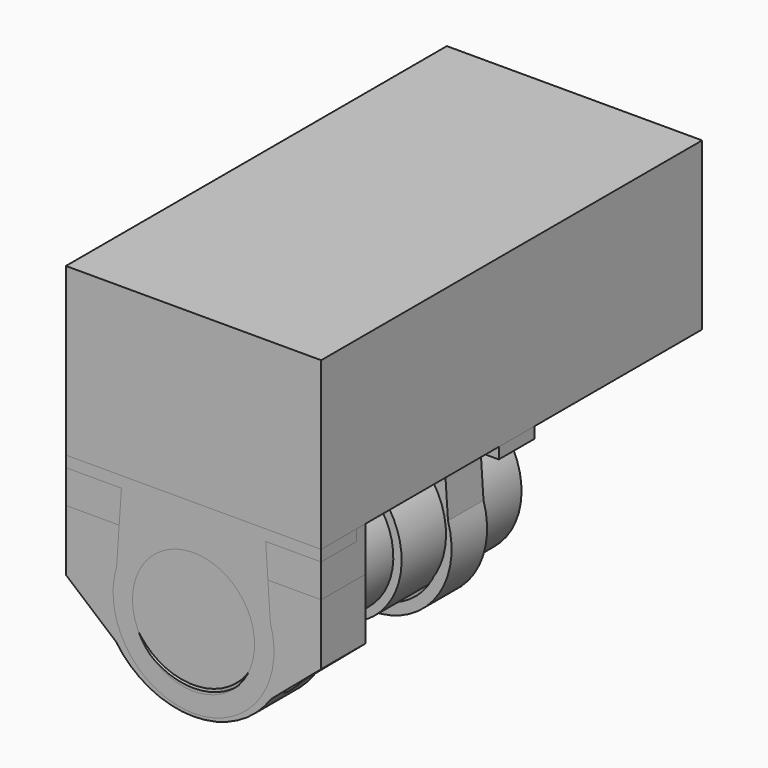
from build123d import *

# Parameters (mm, degrees)
CYLINDER_R        = 12
CYLINDER_DEPTH    = 30
CYLINDER001_R     = 13.5
CYLINDER001_DEPTH = 27
PAD_DEPTH         = 10
SKETCH001_R       = 2.3
POCKET_DEPTH      = 8.201
BOX001_W          = 46
BOX001_H          = 85.8
BOX001_DEPTH      = 30
PAD001_DEPTH      = 10
SKETCH004_R       = 2.3
POCKET001_DEPTH   = 34.001
SKETCH005_R       = 4.2
POCKET002_DEPTH   = 15.001
SKETCH006_R       = 11
PAD002_DEPTH      = 8
SKETCH007_R       = 2
POCKET003_DEPTH   = 33.501
SKETCH008_R       = 12.5
PAD003_DEPTH      = 8
SKETCH009_R       = 2
POCKET004_DEPTH   = 33.501


with BuildPart() as pump:
    # Cylinder → Cylinder (join)
    with BuildSketch(Plane.ZX):
        Circle(CYLINDER_R)
    extrude(amount=CYLINDER_DEPTH)

    # Cylinder001 → Cylinder001 (join)
    with BuildSketch(Plane.ZX.offset(30)):
        Circle(CYLINDER001_R)
    extrude(amount=CYLINDER001_DEPTH)


with BuildPart() as pump_1:
    # Body placement: moved
    add(pump.part.moved(Location((0, 0, -17))))


with BuildPart() as mount_lower:
    # Sketch → Pad (new body)
    with BuildSketch(Plane.XZ):
        with BuildLine():
            Line((-23, 0), (23, 0))
            Line((23, 0), (23, -8))
            Line((23, -8), (12, -8))
            Line((12, -8), (12, -8.2))
            Line((12, -8.2), (9.568699, -8.2))
            ThreePointArc((9.568699, -8.2), (0, -4), (-9.568699, -8.2))
            Line((-9.568699, -8.2), (-12, -8.2))
            Line((-12, -8.2), (-12, -8))
            Line((-12, -8), (-23, -8))
            Line((-23, -8), (-23, 0))
        make_face()
    extrude(amount=-PAD_DEPTH)

    # Sketch001 → Pocket (cut, through all)
    with BuildSketch(Plane.XY):
        with Locations((17.5, 5)):
            Circle(SKETCH001_R)
        with Locations((-17.5, 5)):
            Circle(SKETCH001_R)
    extrude(amount=-POCKET_DEPTH, mode=Mode.SUBTRACT)


with BuildPart() as obj1:
    # Box001 → Box001 (join)
    with BuildSketch(Plane.XY):
        with Locations((23, 42.9)):
            Rectangle(BOX001_W, BOX001_H)
    extrude(amount=BOX001_DEPTH)


with BuildPart() as obj1_1:
    # Body002 placement: moved
    add(obj1.part.moved(Location((-23, 0, 0))))


with BuildPart() as mount_upper:
    # Sketch003 → Pad001 (new body)
    with BuildSketch(Plane.XZ):
        with BuildLine():
            Line((-23, -8), (-12.5, -8))
            Line((-12.5, -8), (-12.5, -17))
            ThreePointArc((-12.5, -17), (0, -29.5), (12.5, -17))
            Line((12.5, -17), (12.5, -8))
            Line((12.5, -8), (23, -8))
            Line((23, -8), (23, -19))
            Line((23, -19), (14, -26.643651))
            ThreePointArc((-14, -26.643651), (0, -34), (14, -26.643651))
            Line((-14, -26.643651), (-23, -19))
            Line((-23, -19), (-23, -8))
        make_face()
    extrude(amount=-PAD001_DEPTH)

    # Sketch004 → Pocket001 (cut, through all)
    with BuildSketch(Plane.XY):
        with Locations((-17.5, 5)):
            Circle(SKETCH004_R)
        with Locations((17.5, 5)):
            Circle(SKETCH004_R)
    extrude(amount=-POCKET001_DEPTH, mode=Mode.SUBTRACT)

    # Sketch005 → Pocket002 (cut, through all)
    with BuildSketch(Plane.XY.offset(-19)):
        with Locations((-17.5, 5)):
            Circle(SKETCH005_R)
        with Locations((17.5, 5)):
            Circle(SKETCH005_R)
    extrude(amount=-POCKET002_DEPTH, mode=Mode.SUBTRACT)


with BuildPart() as tpu_mount:
    # Sketch006 → Pad002 (new body)
    with BuildSketch(Plane.XZ):
        with BuildLine():
            Line((-23, 0), (23, 0))
            Line((23, 0), (23, -2))
            Line((23, -2), (13, -2))
            Line((13, -2), (13.849987, -14.70723))
            ThreePointArc((-13.849987, -14.70723), (0, -33.5), (13.849987, -14.70723))
            Line((-13, -2), (-13.849987, -14.70723))
            Line((-23, -2), (-13, -2))
            Line((-23, -2), (-23, 0))
        make_face()
        with Locations((0, -19)):
            Circle(SKETCH006_R, mode=Mode.SUBTRACT)
    extrude(amount=-PAD002_DEPTH)

    # Sketch007 → Pocket003 (cut, through all)
    with BuildSketch(Plane.XY):
        with Locations((-17.5, 4)):
            Circle(SKETCH007_R)
        with Locations((17.5, 4)):
            Circle(SKETCH007_R)
    extrude(amount=-POCKET003_DEPTH, mode=Mode.SUBTRACT)


with BuildPart() as tpu_mount2:
    # Sketch008 → Pad003 (new body)
    with BuildSketch(Plane.XZ):
        with BuildLine():
            Line((-23, 0), (23, 0))
            Line((23, 0), (23, -2))
            Line((23, -2), (13, -2))
            Line((13, -2), (13.849973, -14.707185))
            ThreePointArc((-13.849973, -14.707185), (0, -33.5), (13.849973, -14.707185))
            Line((-13, -2), (-13.849973, -14.707185))
            Line((-23, -2), (-13, -2))
            Line((-23, -2), (-23, 0))
        make_face()
        with Locations((0, -19)):
            Circle(SKETCH008_R, mode=Mode.SUBTRACT)
    extrude(amount=-PAD003_DEPTH)

    # Sketch009 → Pocket004 (cut, through all)
    with BuildSketch(Plane.XY):
        with Locations((-17.5, 4)):
            Circle(SKETCH009_R)
        with Locations((17.5, 4)):
            Circle(SKETCH009_R)
    extrude(amount=-POCKET004_DEPTH, mode=Mode.SUBTRACT)


with BuildPart() as tpu_mount2_1:
    # Body005 placement: moved
    add(tpu_mount2.part.moved(Location((0, 40, 0))))


solid = Compound([pump_1.part, mount_lower.part, obj1_1.part, mount_upper.part, tpu_mount.part, tpu_mount2_1.part])
